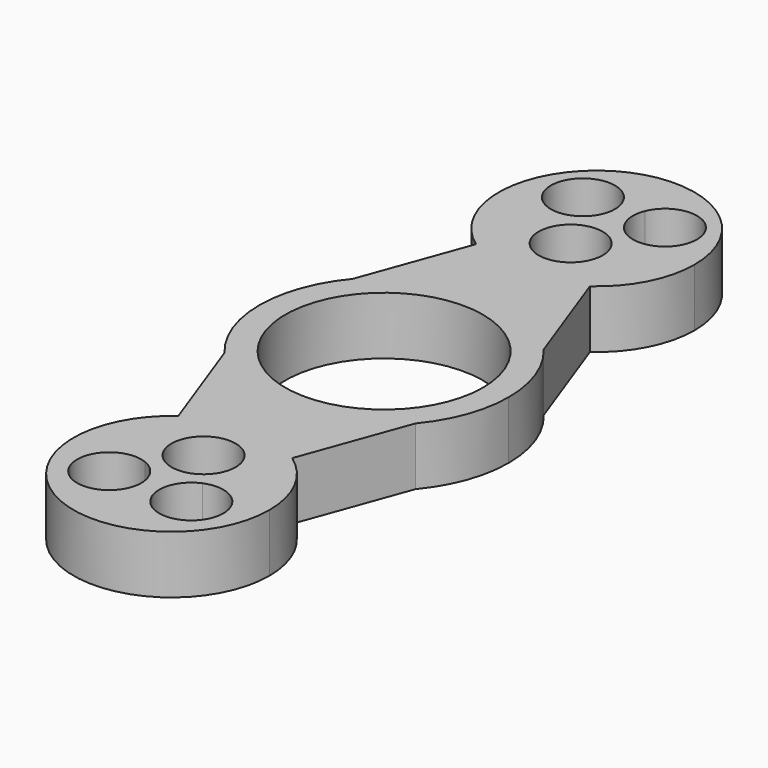
from build123d import *

# Parameters (mm, degrees)
F0_R     = 11.1
F0_R_2   = 3.6
F1_DEPTH = 6.5


with BuildPart() as f1:
    # F0 (on Top) → F1 (new body)
    with BuildSketch(Plane.XY):
        with BuildLine():
            Line((10.7278155075, -8.9952195325), (14, 0))
            Line((14, 0), (10.7278155075, 8.9952195325))
            ThreePointArc((10.7278155075, 8.9952195325), (0, 14), (-10.7278155075, 8.9952195325))
            Line((-10.7278155075, 8.9952195325), (-14, 0))
            Line((-14, 0), (-10.7278155075, -8.9952195325))
            ThreePointArc((-10.7278155075, -8.9952195325), (0, -14), (10.7278155075, -8.9952195325))
        make_face()
        Circle(F0_R, mode=Mode.SUBTRACT)
        with BuildLine():
            Line((-14, 0), (-10.7278155075, 8.9952195325))
            ThreePointArc((-10.7278155075, 8.9952195325), (-13.1565462243, 4.7859472884), (-14, 0))
        make_face()
        with BuildLine():
            ThreePointArc((-14, 0), (-13.1565462243, -4.7859472884), (-10.7278155075, -8.9952195325))
            Line((-10.7278155075, -8.9952195325), (-14, 0))
        make_face()
        with BuildLine():
            ThreePointArc((10.7278155075, -8.9952195325), (13.1565462243, -4.7859472884), (14, 0))
            Line((14, 0), (10.7278155075, -8.9952195325))
        make_face()
        with BuildLine():
            Line((10.7278155075, 8.9952195325), (14, 0))
            ThreePointArc((14, 0), (13.1565462243, 4.7859472884), (10.7278155075, 8.9952195325))
        make_face()
        with BuildLine():
            ThreePointArc((-6.3985424017, 20.896370611), (0, 18.8439208418), (6.3985424017, 20.896370611))
            Line((6.3985424017, 20.896370611), (2.8967563366, 30.5227637692))
            ThreePointArc((2.8967563366, 30.5227637692), (1.1947786179, 32.4754527121), (1.2443241353, 35.0652919937))
            Line((1.2443241353, 35.0652919937), (0, 38.4859330952))
            Line((0, 38.4859330952), (-1.2735454835, 34.9849626471))
            ThreePointArc((-1.2735454835, 34.9849626471), (-1.0979323396, 34.3562319579), (-1.0387459151, 33.706124872))
            ThreePointArc((-1.0387459151, 33.706124872), (-1.5334959699, 31.8847455108), (-2.8817585693, 30.5639925599))
            Line((-2.8817585693, 30.5639925599), (-6.3985424017, 20.896370611))
        make_face()
        with Locations((0, 26.1885132641)):
            Circle(F0_R_2, mode=Mode.SUBTRACT)
        with BuildLine():
            Line((2.8967563366, 30.5227637692), (6.3985424017, 20.896370611))
            ThreePointArc((6.3985424017, 20.896370611), (9.7822279267, 24.8132134571), (11, 29.8439208418))
            ThreePointArc((11, 29.8439208418), (-5.0307073847, 39.6261487685), (-6.3985424017, 20.896370611))
            Line((-6.3985424017, 20.896370611), (-2.8817585693, 30.5639925599))
            ThreePointArc((-2.8817585693, 30.5639925599), (-8.0218578014, 34.9367970319), (-1.2735454835, 34.9849626471))
            Line((-1.2735454835, 34.9849626471), (0, 38.4859330952))
            Line((0, 38.4859330952), (1.2443241353, 35.0652919937))
            ThreePointArc((1.2443241353, 35.0652919937), (5.2704080391, 37.2388885867), (8.1778905042, 33.706124872))
            ThreePointArc((8.1778905042, 33.706124872), (6.4363733527, 30.6229379653), (2.8967563366, 30.5227637692))
        make_face()
        with BuildLine():
            ThreePointArc((-10.7278155075, 8.9952195325), (0, 14), (10.7278155075, 8.9952195325))
            Line((10.7278155075, 8.9952195325), (6.3985424017, 20.896370611))
            ThreePointArc((6.3985424017, 20.896370611), (0, 18.8439208418), (-6.3985424017, 20.896370611))
            Line((-6.3985424017, 20.896370611), (-10.7278155075, 8.9952195325))
        make_face()
        with BuildLine():
            Line((3.2549400142, -29.5381185512), (6.3985424017, -20.896370611))
            ThreePointArc((6.3985424017, -20.896370611), (0, -18.8439208418), (-6.3985424017, -20.896370611))
            Line((-6.3985424017, -20.896370611), (-3.2654211785, -29.5093058806))
            ThreePointArc((-3.2654211785, -29.5093058806), (-1.6042656478, -30.8323566496), (-0.9778905042, -32.8615326434))
            ThreePointArc((-0.9778905042, -32.8615326434), (-1.0897360598, -33.7519137821), (-1.4183230442, -34.5869698246))
            Line((-1.4183230442, -34.5869698246), (0, -38.4859330952))
            Line((0, -38.4859330952), (1.4430277894, -34.5190565983))
            ThreePointArc((1.4430277894, -34.5190565983), (1.2556340289, -31.6308604836), (3.2549400142, -29.5381185512))
        make_face()
        with Locations((0, -25.3439210355)):
            Circle(F0_R_2, mode=Mode.SUBTRACT)
        with BuildLine():
            Line((6.3985424017, -20.896370611), (10.7278155075, -8.9952195325))
            ThreePointArc((10.7278155075, -8.9952195325), (0, -14), (-10.7278155075, -8.9952195325))
            Line((-10.7278155075, -8.9952195325), (-6.3985424017, -20.896370611))
            ThreePointArc((-6.3985424017, -20.896370611), (0, -18.8439208418), (6.3985424017, -20.896370611))
        make_face()
        with BuildLine():
            ThreePointArc((11, -29.8439208418), (9.7822279267, -24.8132134571), (6.3985424017, -20.896370611))
            Line((6.3985424017, -20.896370611), (3.2549400142, -29.5381185512))
            ThreePointArc((3.2549400142, -29.5381185512), (6.6360314176, -29.8663948133), (8.2387459151, -32.8615326434))
            ThreePointArc((8.2387459151, -32.8615326434), (5.4918035765, -36.3590021038), (1.4430277894, -34.5190565983))
            Line((1.4430277894, -34.5190565983), (0, -38.4859330952))
            Line((0, -38.4859330952), (-1.4183230442, -34.5869698246))
            ThreePointArc((-1.4183230442, -34.5869698246), (-7.9610023904, -34.0922048033), (-3.2654211785, -29.5093058806))
            Line((-3.2654211785, -29.5093058806), (-6.3985424017, -20.896370611))
            ThreePointArc((-6.3985424017, -20.896370611), (-5.0307073847, -39.6261487685), (11, -29.8439208418))
        make_face()
    extrude(amount=F1_DEPTH)


solid = f1.part
